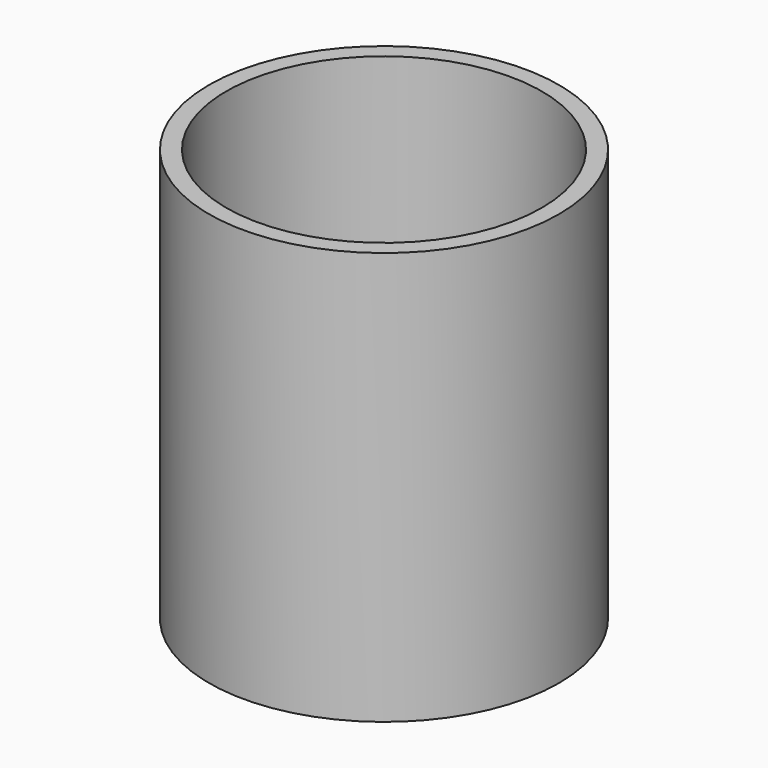
from build123d import *

# Parameters (mm, degrees)
F0_R        = 64.612986
F0_R_2      = 58.262985
F1_DEPTH    = 76.2
F1_FACE_R   = 64.612986
F1_FACE_R_2 = 58.262985
F2_DEPTH    = 76.2


with BuildPart() as f1:
    # F0 (on Top) → F1 (new body)
    with BuildSketch(Plane.XY):
        Circle(F0_R)
        Circle(F0_R_2, mode=Mode.SUBTRACT)
    extrude(amount=F1_DEPTH)

    # F1_face (on face) → F2 (join)
    with BuildSketch(Plane(origin=(0, 0, 0), x_dir=(1, 0, 0), z_dir=(0, 0, -1))):
        Circle(F1_FACE_R)
        Circle(F1_FACE_R_2, mode=Mode.SUBTRACT)
    extrude(amount=F2_DEPTH)


solid = f1.part
